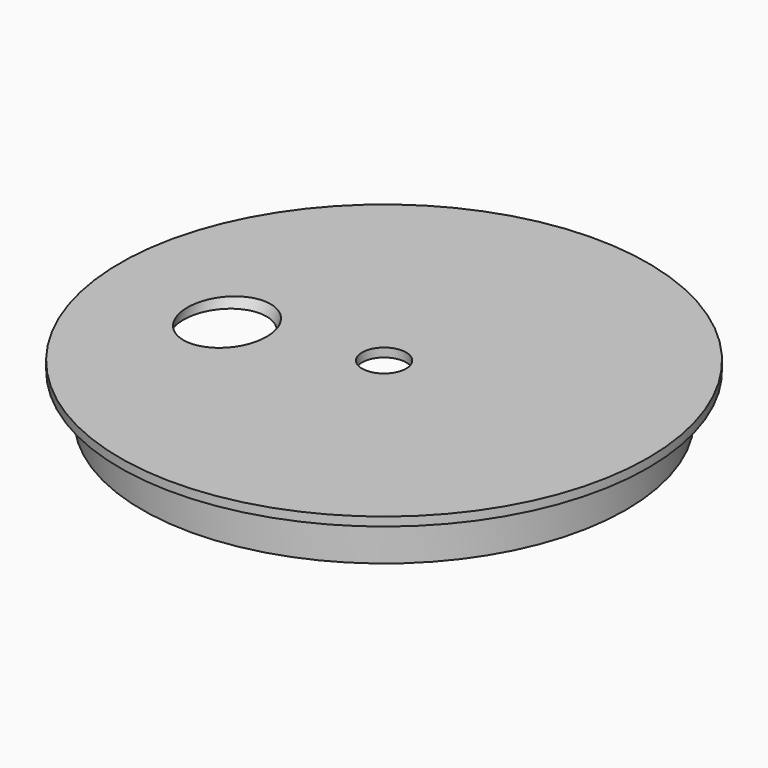
from build123d import *

# Parameters (mm, degrees)
F0_R      = 27.5
F0_R_2    = 26.5
F1_DEPTH  = 5
F2_R      = 27.5
F3_DEPTH  = 1
F5_DEPTH  = 25
F6_DEPTH  = 6
F8_D      = 9
F8_DEPTH  = 30
F8_TIP    = 2.7038727856
F9_DEPTH  = 25
F11_D     = 5
F11_DEPTH = 30
F11_TIP   = 1.5021515476
F12_R     = 30
F12_R_2   = 27.5
F13_DEPTH = 1


with BuildPart() as f1:
    # F0 (on Top) → F1 (new body)
    with BuildSketch(Plane.XY):
        Circle(F0_R)
        Circle(F0_R_2, mode=Mode.SUBTRACT)
    extrude(amount=F1_DEPTH)

    # F2 (on face) → F3 (join)
    with BuildSketch(Plane.XY.offset(5)):
        Circle(F2_R)
    extrude(amount=F3_DEPTH)

    # F4 (on Right) → F5 (join)
    with BuildSketch(Plane.YZ):
        Polygon((-8.5, 6), (0, 6), (8.5, 6), (-8.5, 16), align=None)
    extrude(amount=-F5_DEPTH)

    # F6 (cut): a face of the model
    f6_faces = [f1.faces().sort_by_distance(p)[0] for p in [
        (0, -2.8333333333, 9.3333333333),
    ]]
    extrude(f6_faces, amount=-F6_DEPTH, mode=Mode.SUBTRACT)

    # F8
    with Locations(Plane(origin=(0, 4.8071979434, 8.1722365039), x_dir=(1, 0, 0), z_dir=(0, 0.5070201266, 0.8619342152))):
        with Locations((-15.5, -5.5772213922)):
            Hole(F8_D / 2, depth=F8_DEPTH)
            with Locations((0, 0, -(F8_DEPTH + F8_TIP / 2))):  # 118° drill point
                Cone(0, F8_D / 2, F8_TIP, mode=Mode.SUBTRACT)

    # F9 (cut): a face of the model
    f9_faces = [f1.faces().sort_by_distance(p)[0] for p in [
        (-25, -2.8333333333, 9.3333333333),
    ]]
    extrude(f9_faces, amount=-F9_DEPTH, mode=Mode.SUBTRACT)

    # F11
    with Locations(Plane.XY.offset(6)):
        with Locations((0, 0)):
            Hole(F11_D / 2, depth=F11_DEPTH)
            with Locations((0, 0, -(F11_DEPTH + F11_TIP / 2))):  # 118° drill point
                Cone(0, F11_D / 2, F11_TIP, mode=Mode.SUBTRACT)

    # F12 (on face) → F13 (join)
    with BuildSketch(Plane.XY.offset(6)):
        Circle(F12_R)
        Circle(F12_R_2, mode=Mode.SUBTRACT)
    extrude(amount=-F13_DEPTH)


solid = f1.part
